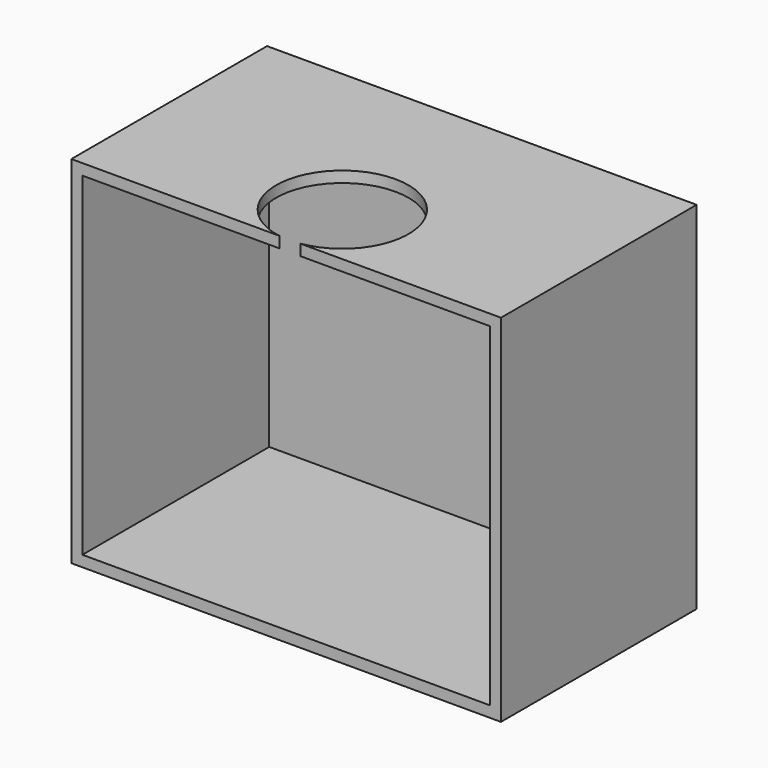
from build123d import *

# Parameters (mm, degrees)
F3_T     = -2.5
F5_D     = 30
F5_DEPTH = 12
F5_TIP   = 9.0129092854


with BuildPart() as f2:
    # F2: sweep along a path in F1
    with BuildLine(Plane.YZ) as f2_path:
        Line((0, 0), (-55.432960391, 0))
    # F0 (on Front) → F2 (sweep)
    with BuildSketch(Plane.XZ):
        Polygon((-49.567040056, 47.953914851), (-49.567040056, 42.0879907906), (-49.567040056, -32.7025167644), (47.8072650731, -32.7025167644), (47.8072650731, 47.953914851), align=None)
    sweep(path=f2_path.line)

    # F3
    f3_openings = [f2.faces().sort_by_distance(p)[0] for p in [
        (-0.879887, -55.43296, 7.625699),
    ]]
    offset(amount=F3_T, openings=f3_openings)

    # F5
    with Locations(Plane.XY.offset(47.953914851)):
        with Locations((0, -40.6215079129)):
            Hole(F5_D / 2, depth=F5_DEPTH)
            with Locations((0, 0, -(F5_DEPTH + F5_TIP / 2))):  # 118° drill point
                Cone(0, F5_D / 2, F5_TIP, mode=Mode.SUBTRACT)


solid = f2.part
